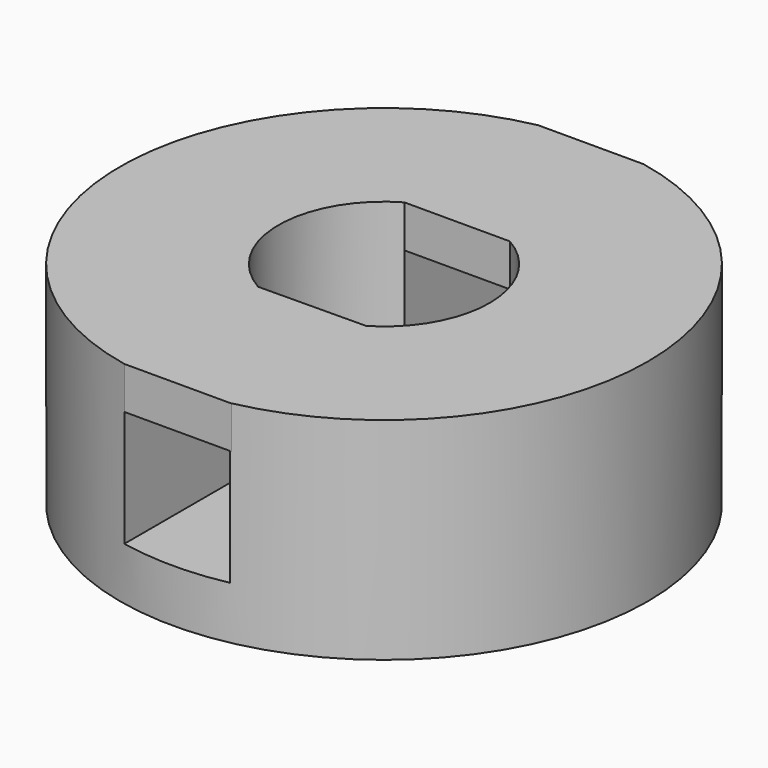
from build123d import *

# Parameters (mm, degrees)
F0_R     = 12.5
F0_R_2   = 5
F1_DEPTH = 10
F3_DEPTH = 7.5
F5_DEPTH = 2
F6_W     = 5
F6_H     = 7.917322
F7_DEPTH = 2


with BuildPart() as f1:
    # F0 (on Top) → F1 (new body)
    with BuildSketch(Plane.XY):
        Circle(F0_R)
        Circle(F0_R_2, mode=Mode.SUBTRACT)
    extrude(amount=F1_DEPTH)

    # F2 (on face) → F3 (cut, symmetric)
    with BuildSketch(Plane.XY.offset(10)):
        with BuildLine():
            Line((-2.5, -4.330127), (-2.5, -12.247449))
            ThreePointArc((-2.5, -12.247449), (0, -12.5), (2.5, -12.247449))
            Line((2.5, -12.247449), (2.5, -4.330127))
            ThreePointArc((2.5, -4.330127), (0, -5), (-2.5, -4.330127))
        make_face()
        with BuildLine():
            ThreePointArc((2.5, 12.247449), (0, 12.5), (-2.5, 12.247449))
            Line((-2.5, 12.247449), (-2.5, 4.330127))
            ThreePointArc((-2.5, 4.330127), (0, 5), (2.5, 4.330127))
            Line((2.5, 4.330127), (2.5, 12.247449))
        make_face()
    extrude(amount=F3_DEPTH, both=True, mode=Mode.SUBTRACT)

    # F4 (on face) → F5 (join)
    with BuildSketch(Plane.XY.offset(10)):
        Polygon((-2.5, -4.330127), (-2.5, -12.247449), (2.568516, -12.247449), (2.568516, -4.281065), align=None)
    extrude(amount=-F5_DEPTH)

    # F6 (on face) → F7 (join)
    with BuildSketch(Plane.XY.offset(10)):
        with Locations((0, 8.288788)):
            Rectangle(F6_W, F6_H)
    extrude(amount=-F7_DEPTH)


solid = f1.part
